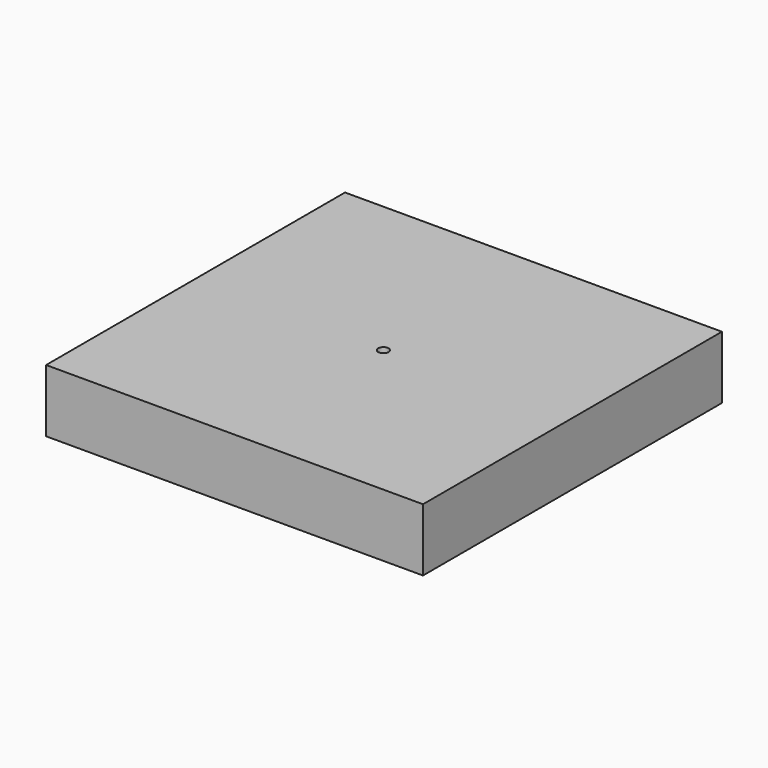
from build123d import *

# Parameters (mm, degrees)
F1_DEPTH = 25.4
F3_D     = 4.2


with BuildPart() as f1:
    # F0 (on Top) → F1 (new body)
    with BuildSketch(Plane.XY):
        Polygon((75.6428092718, -74.5307654142), (75.6428092718, 0), (75.6428092718, 76.6944885254), (-76.9004449248, 76.6944885254), (-76.9004449248, -74.5307654142), align=None)
    extrude(amount=-F1_DEPTH)

    # F3 (through all)
    with Locations(Plane.XY):
        with Locations((0, 0)):
            Hole(F3_D / 2)


solid = f1.part
